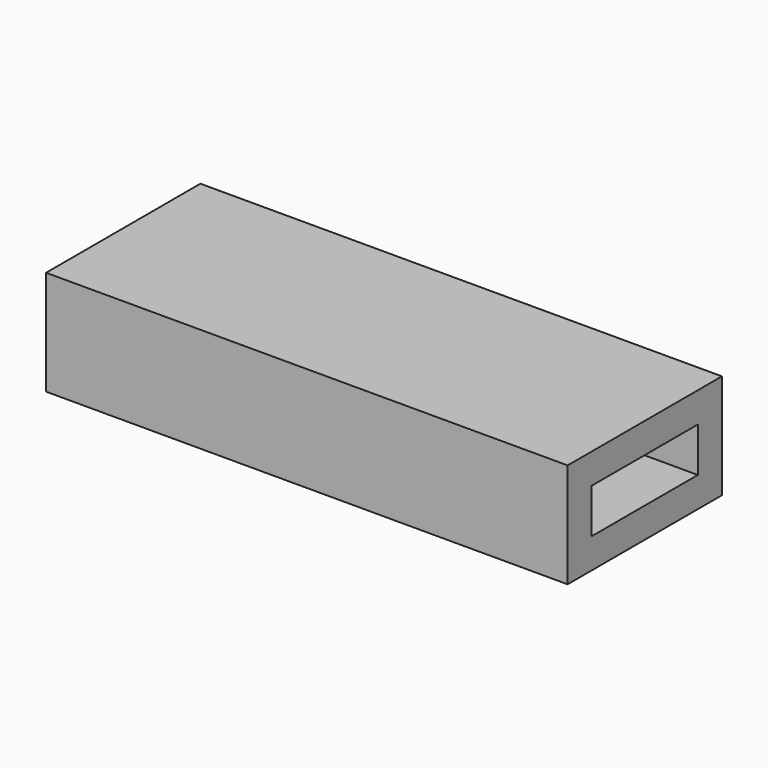
from build123d import *

# Parameters (mm, degrees)
F0_W     = 99.902272
F0_H     = 36.941995
F1_DEPTH = 20.05522
F2_W     = 25.4
F2_H     = 8.513226
F3_DEPTH = 99.903272


with BuildPart() as f1:
    # F0 (on Top) → F1 (new body)
    with BuildSketch(Plane.XY):
        with Locations((-0.695147, 28.898173)):
            Rectangle(F0_W, F0_H)
    extrude(amount=F1_DEPTH)

    # F2 (on face) → F3 (cut, through all)
    with BuildSketch(Plane(origin=(-50.646283, 0, 0), x_dir=(0, -1, 0), z_dir=(-1, 0, 0))):
        with Locations((-28.898173, 10.02761)):
            Rectangle(F2_W, F2_H)
    extrude(amount=-F3_DEPTH, mode=Mode.SUBTRACT)


solid = f1.part
